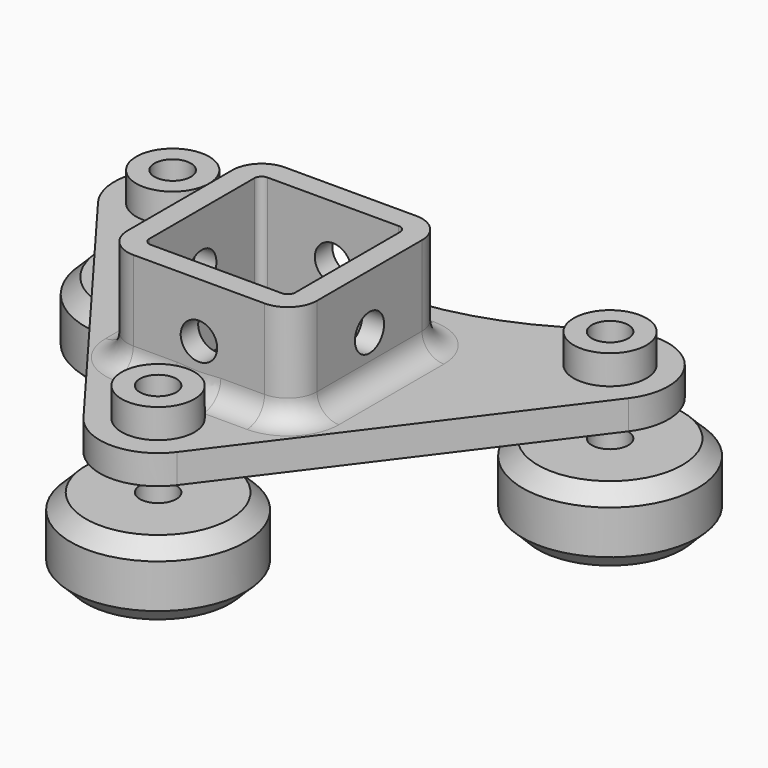
from build123d import *

# Parameters (mm, degrees)
SKETCH_R                = 2.5
PAD_DEPTH               = 4
PAD001_DEPTH            = 14
SKETCH002_R             = 2.5
POCKET_DEPTH            = 4.5
POLARPATTERN_COUNT      = 4
SKETCH003_R             = 5
SKETCH003_R_2           = 2.5
PAD002_DEPTH            = 4
FILLET_R                = 3
BODY001_PLACEMENT_ANGLE = 90
BODY002_PLACEMENT_ANGLE = 90
BODY003_PLACEMENT_ANGLE = 90


with BuildPart() as body:
    # Sketch → Pad (new body)
    with BuildSketch(Plane.XY):
        with BuildLine():
            Line((36.4, 15.2), (6.4, -24.8))
            ThreePointArc((-6.4, -24.8), (0, -28), (6.4, -24.8))
            Line((-6.4, -24.8), (-36.4, 15.2))
            ThreePointArc((-25.905574, 26.872821), (-35.949169, 25.348588), (-36.4, 15.2))
            Line((-25.905574, 26.872821), (-20.472131, 23.635893))
            ThreePointArc((-20.472131, 23.635893), (0, 18), (20.472131, 23.635893))
            Line((25.905574, 26.872821), (20.472131, 23.635893))
            ThreePointArc((36.4, 15.2), (35.949169, 25.348588), (25.905574, 26.872821))
        make_face()
        with Locations((30, 20)):
            Circle(SKETCH_R, mode=Mode.SUBTRACT)
        with Locations((-30, 20)):
            Circle(SKETCH_R, mode=Mode.SUBTRACT)
        with Locations((0, -20)):
            Circle(SKETCH_R, mode=Mode.SUBTRACT)
        with BuildLine():
            Line((-9, -10), (9, -10))
            ThreePointArc((9, -10), (9.707107, -9.707107), (10, -9))
            Line((10, -9), (10, 9))
            ThreePointArc((10, 9), (9.707107, 9.707107), (9, 10))
            Line((9, 10), (-9, 10))
            ThreePointArc((-9, 10), (-9.707107, 9.707107), (-10, 9))
            Line((-10, 9), (-10, -9))
            ThreePointArc((-10, -9), (-9.707107, -9.707107), (-9, -10))
        make_face(mode=Mode.SUBTRACT)
    extrude(amount=PAD_DEPTH)

    # Sketch001 (on Face21 of Pad) → Pad001 (join)
    with BuildSketch(Plane.XY.offset(4)):
        with BuildLine():
            Line((-9, 13), (9, 13))
            ThreePointArc((13, 9), (11.828427, 11.828427), (9, 13))
            Line((13, 9), (13, -9))
            ThreePointArc((9, -13), (11.828427, -11.828427), (13, -9))
            Line((9, -13), (-9, -13))
            ThreePointArc((-13, -9), (-11.828427, -11.828427), (-9, -13))
            Line((-13, -9), (-13, 9))
            ThreePointArc((-9, 13), (-11.828427, 11.828427), (-13, 9))
        make_face()
        with BuildLine():
            Line((-9, -10), (9, -10))
            ThreePointArc((9, -10), (9.707107, -9.707107), (10, -9))
            Line((10, -9), (10, 9))
            ThreePointArc((10, 9), (9.707107, 9.707107), (9, 10))
            Line((9, 10), (-9, 10))
            ThreePointArc((-9, 10), (-9.707107, 9.707107), (-10, 9))
            Line((-10, 9), (-10, -9))
            ThreePointArc((-10, -9), (-9.707107, -9.707107), (-9, -10))
        make_face(mode=Mode.SUBTRACT)
    extrude(amount=PAD001_DEPTH)

    # Sketch002 → Pocket (cut, symmetric)
    with BuildSketch(Plane(origin=(0, 13, 0), x_dir=(-1, 0, 0), z_dir=(0, 1, 0))):
        with Locations((0, 10.5)):
            Circle(SKETCH002_R)
    pocket = extrude(amount=POCKET_DEPTH, both=True, mode=Mode.SUBTRACT)

    # PolarPattern: Pocket ×4 about axis
    polarpattern_axis = Axis((0, 0, 0), (0, 0, 1))
    for i in range(1, POLARPATTERN_COUNT):
        add(pocket.rotate(polarpattern_axis, i * 360 / POLARPATTERN_COUNT), mode=Mode.SUBTRACT)

    # Sketch003 (on Face1 of PolarPattern) → Pad002 (join)
    with BuildSketch(Plane.XY.offset(4)):
        with Locations((30, 20)):
            Circle(SKETCH003_R)
        with Locations((30, 20)):
            Circle(SKETCH003_R_2, mode=Mode.SUBTRACT)
        with Locations((-30, 20)):
            Circle(SKETCH003_R)
        with Locations((-30, 20)):
            Circle(SKETCH003_R_2, mode=Mode.SUBTRACT)
        with Locations((0, -20)):
            Circle(SKETCH003_R)
        with Locations((0, -20)):
            Circle(SKETCH003_R_2, mode=Mode.SUBTRACT)
    extrude(amount=PAD002_DEPTH)

    # Fillet
    fillet_edges = [body.edges().sort_by_distance(p)[0] for p in [
        (-11.828427, 11.828427, 4),
    ]]
    fillet(fillet_edges, radius=FILLET_R)


with BuildPart() as body001:
    # Sketch004 → Revolution (revolve)
    with BuildSketch(Plane.XZ):
        Polygon((-3, 12), (-5.1, 9.9), (-5.1, 2.5), (5.1, 2.5), (5.1, 9.9), (3, 12), align=None)
    revolve(axis=Axis((0, 0, 0), (1, 0, 0)))


with BuildPart() as body001_1:
    # Body001 placement: moved
    add(body001.part.moved(Location((0, -20, -10))).rotate(Axis((0, -20, -10), (0, 1, 0)), BODY001_PLACEMENT_ANGLE))


with BuildPart() as body002:
    # Sketch005 → Revolution001 (revolve)
    with BuildSketch(Plane.XZ):
        Polygon((-3, 12), (-5.1, 9.9), (-5.1, 2.5), (5.1, 2.5), (5.1, 9.9), (3, 12), align=None)
    revolve(axis=Axis((0, 0, 0), (1, 0, 0)))


with BuildPart() as body002_1:
    # Body002 placement: moved
    add(body002.part.moved(Location((-30, 20, -10))).rotate(Axis((-30, 20, -10), (0, 1, 0)), BODY002_PLACEMENT_ANGLE))


with BuildPart() as body003:
    # Sketch006 → Revolution002 (revolve)
    with BuildSketch(Plane.XZ):
        Polygon((-3, 12), (-5.1, 9.9), (-5.1, 2.5), (5.1, 2.5), (5.1, 9.9), (3, 12), align=None)
    revolve(axis=Axis((0, 0, 0), (1, 0, 0)))


with BuildPart() as body003_1:
    # Body003 placement: moved
    add(body003.part.moved(Location((30, 20, -10))).rotate(Axis((30, 20, -10), (0, 1, 0)), BODY003_PLACEMENT_ANGLE))


solid = Compound([body.part, body001_1.part, body002_1.part, body003_1.part])
